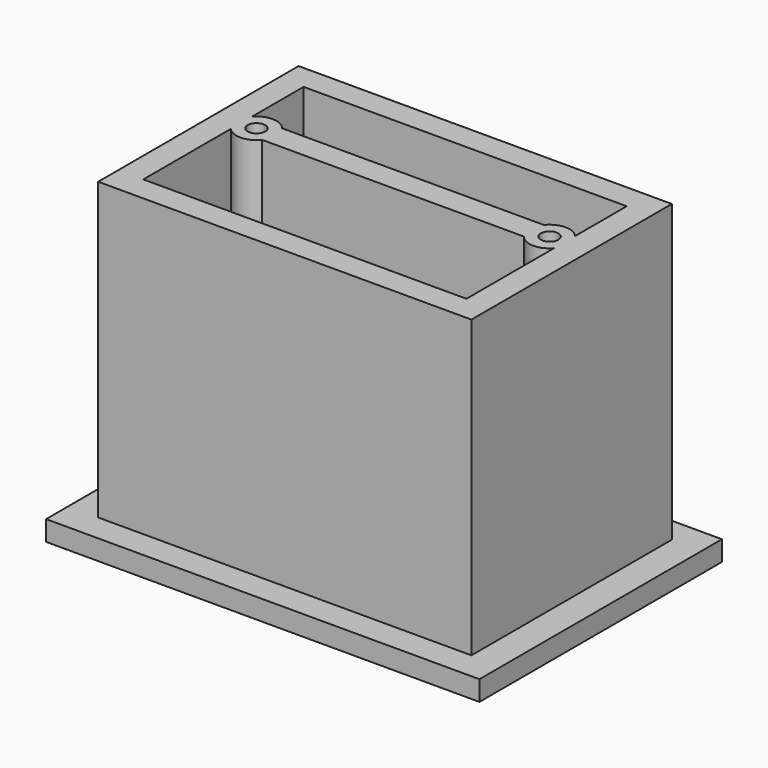
from build123d import *

# Parameters (mm, degrees)
F0_W     = 86.5
F0_H     = 60.5
F1_DEPTH = 4
F3_DEPTH = 59
F4_R     = 1.75
F5_DEPTH = 63.001


with BuildPart() as f1:
    # F0 (on Top) → F1 (new body)
    with BuildSketch(Plane.XY):
        Rectangle(F0_W, F0_H)
    extrude(amount=F1_DEPTH)

    # F2 (on face) → F3 (join)
    with BuildSketch(Plane.XY.offset(4)):
        Polygon((37.25, -24.75), (37.25, 25.25), (-37.25, 25.25), (-37.25, 7.3957513111), (-37.25, -24.75), align=None)
        Polygon((-32.25, 2.1042486889), (-32.25, 7.3957513111), (-32.25, 20.25), (32.25, 20.25), (32.25, 7.3957513111), (32.25, 2.1042486889), (32.25, -19.75), (-32.25, -19.75), align=None, mode=Mode.SUBTRACT)
        with BuildLine():
            Line((26.1275010008, 7.25), (-26.1275010008, 7.25))
            ThreePointArc((-26.1275010008, 7.25), (-29.154803559, 8.7488670443), (-32.25, 7.3957513111))
            Line((-32.25, 7.3957513111), (-32.25, 2.1042486889))
            ThreePointArc((-32.25, 2.1042486889), (-29.154803559, 0.7511329557), (-26.1275010008, 2.25))
            Line((-26.1275010008, 2.25), (26.1275010008, 2.25))
            ThreePointArc((26.1275010008, 2.25), (29.154803559, 0.7511329557), (32.25, 2.1042486889))
            Line((32.25, 2.1042486889), (32.25, 7.3957513111))
            ThreePointArc((32.25, 7.3957513111), (29.154803559, 8.7488670443), (26.1275010008, 7.25))
        make_face()
    extrude(amount=F3_DEPTH)

    # F4 (on face) → F5 (cut, through all)
    with BuildSketch(Plane.XY.offset(63)):
        with Locations((-29.25, 4.75)):
            Circle(F4_R)
        with Locations((29.25, 4.75)):
            Circle(F4_R)
    extrude(amount=-F5_DEPTH, mode=Mode.SUBTRACT)


solid = f1.part
